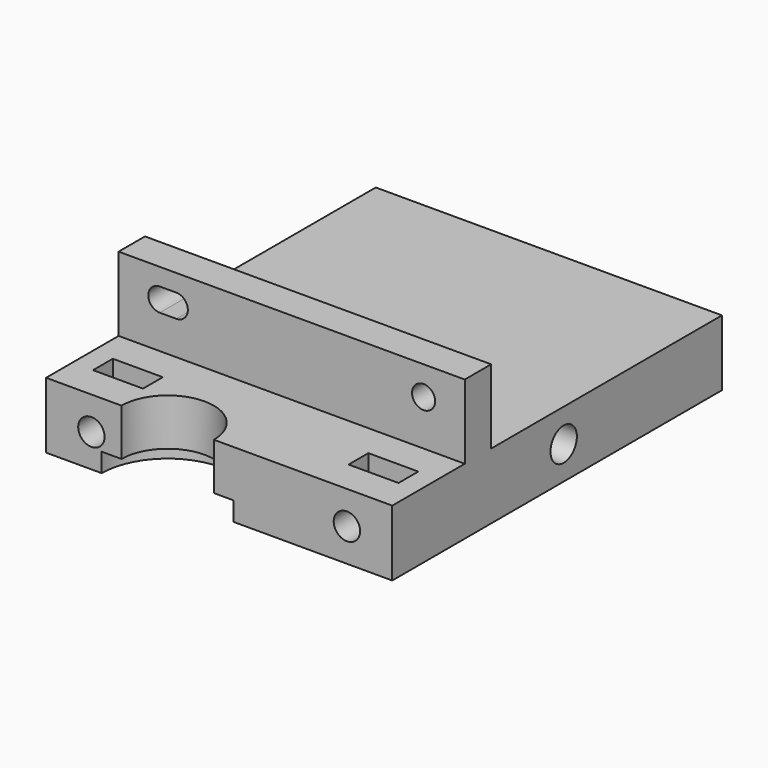
from build123d import *

# Parameters (mm, degrees)
PAD006_DEPTH = 3
SKETCH005_R  = 8
PAD005_DEPTH = 2.3
SKETCH004_R  = 6
PAD004_DEPTH = 4
SKETCH007_R  = 1.6
PAD007_DEPTH = 15
SKETCH003_R  = 1.4
PAD003_DEPTH = 4
SKETCH002_W  = 42
SKETCH002_H  = 4
PAD002_DEPTH = 9
SKETCH001_R  = 2
PAD001_DEPTH = 42
PAD_DEPTH    = 8


with BuildPart() as nutmount:
    # Sketch006 → Pad006 (new body)
    with BuildSketch(Plane.XZ.offset(-4)):
        Polygon((5.531089, 0.5), (8.562178, 2.25), (8.562178, 5.75), (8.562178, 8), (2.5, 8), (2.5, 5.75), (2.5, 2.25), align=None)
        Polygon((39.562178, 2.25), (39.562178, 5.75), (39.562178, 8), (33.5, 8), (33.5, 5.75), (33.5, 2.25), (36.531089, 0.5), align=None)
    extrude(amount=-PAD006_DEPTH)


with BuildPart() as hotendmount:
    # Sketch005 → Pad005 (new body)
    with BuildSketch(Plane.XY):
        with Locations((14.75, 0)):
            Circle(SKETCH005_R)
    extrude(amount=PAD005_DEPTH)


with BuildPart() as springmount:
    # Sketch004 → Pad004 (new body)
    with BuildSketch(Plane.XY):
        with Locations((10.5, 42)):
            Circle(SKETCH004_R)
    extrude(amount=PAD004_DEPTH)


with BuildPart() as hotendmount02:
    # Sketch007 → Pad007 (new body)
    with BuildSketch(Plane.XZ):
        with Locations((5.5, 4)):
            Circle(SKETCH007_R)
        with Locations((36.5, 4)):
            Circle(SKETCH007_R)
    extrude(amount=-PAD007_DEPTH)


with BuildPart() as cutblock:
    # Sketch003 → Pad003 (new body)
    with BuildSketch(Plane.XZ.offset(-11)):
        with Locations((37, 13.5)):
            Circle(SKETCH003_R)
        with BuildLine():
            ThreePointArc((5, 14.9), (3.6, 13.5), (5, 12.1))
            Line((5, 12.1), (7, 12.1))
            ThreePointArc((7, 12.1), (8.4, 13.5), (7, 14.9))
            Line((5, 14.9), (7, 14.9))
        make_face()
    extrude(amount=-PAD003_DEPTH)

    # Fusion001: union NutMount, HotEndMount, SpringMount, HotEndMount02
    add(nutmount.part)
    add(hotendmount.part)
    add(springmount.part)
    add(hotendmount02.part)


with BuildPart() as pad002:
    # Sketch002 → Pad002 (new body)
    with BuildSketch(Plane.XY.offset(8)):
        with Locations((21, 13)):
            Rectangle(SKETCH002_W, SKETCH002_H)
    extrude(amount=PAD002_DEPTH)


with BuildPart() as pad001:
    # Sketch001 → Pad001 (new body)
    with BuildSketch(Plane.YZ):
        with Locations((26, 4)):
            Circle(SKETCH001_R)
    extrude(amount=PAD001_DEPTH)


with BuildPart() as final:
    # Sketch → Pad (new body)
    with BuildSketch(Plane.XY):
        with BuildLine():
            Line((0, 50), (42, 50))
            Line((42, 50), (42, 0))
            Line((20.35, 0), (42, 0))
            ThreePointArc((20.35, 0), (14.75, 5.6), (9.15, 0))
            Line((9.15, 0), (0, 0))
            Line((0, 0), (0, 50))
        make_face()
    extrude(amount=PAD_DEPTH)

    # Cut: cut Pad001
    add(pad001.part, mode=Mode.SUBTRACT)

    # Fusion: union Pad002
    add(pad002.part)

    # Cut001: cut CutBlock
    add(cutblock.part, mode=Mode.SUBTRACT)


solid = final.part
